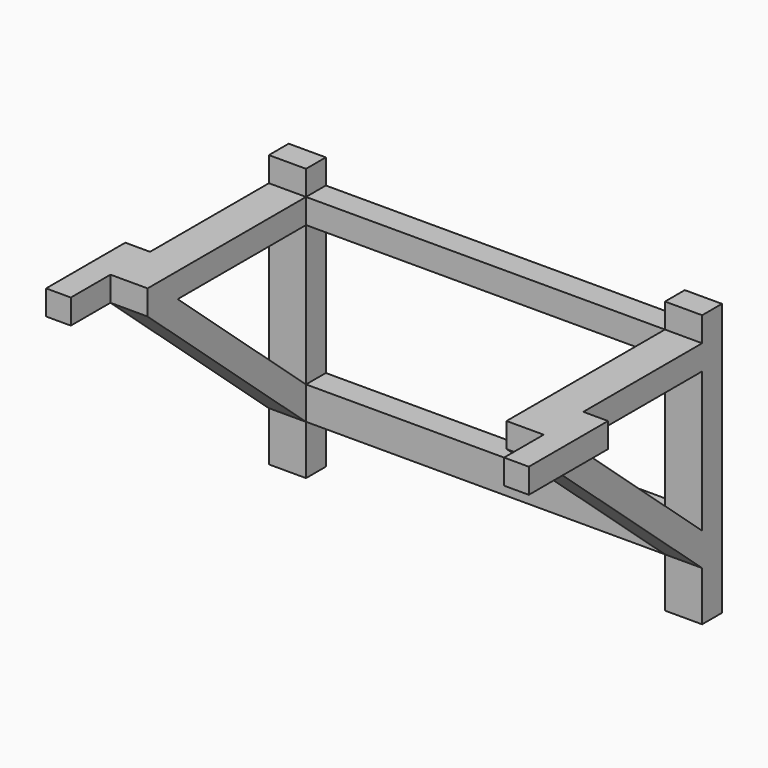
from build123d import *

# Parameters (mm, degrees)
F0_W     = 38.1
F0_H     = 143.9402176437
F0_H_2   = 25.2968176437
F0_W_2   = 368.3
F0_H_3   = 33.7566
F0_H_4   = 50.9031823563
F0_H_5   = 25.4
F0_H_6   = 50.8
F1_DEPTH = 25.4
F2_W     = 38.1
F2_H     = 25.4
F3_DEPTH = 203.2
F5_DEPTH = 38.1
F7_DEPTH = 38.1
F8_W     = 25.4
F8_H     = 50.8
F9_DEPTH = 25.4


with BuildPart() as f1:
    # F0 (on Front) → F1 (new body)
    with BuildSketch(Plane.XZ):
        with Locations((203.2, 16.9298911782)):
            Rectangle(F0_W, F0_H)
        with Locations((203.2, 126.9484088218)):
            Rectangle(F0_W, F0_H_2)
        with Locations((0, -71.9185176437)):
            Rectangle(F0_W_2, F0_H_3)
        with Locations((203.2, -71.9185176437)):
            Rectangle(F0_W, F0_H_3)
        with Locations((-203.2, -114.2484088218)):
            Rectangle(F0_W, F0_H_4)
        with Locations((-203.2, 16.9298911782)):
            Rectangle(F0_W, F0_H)
        with Locations((-203.2, 101.6)):
            Rectangle(F0_W, F0_H_5)
        with Locations((203.2, 101.6)):
            Rectangle(F0_W, F0_H_5)
        with Locations((-203.2, 127)):
            Rectangle(F0_W, F0_H_5)
        with Locations((-203.2, -71.9185176437)):
            Rectangle(F0_W, F0_H_3)
        with Locations((0, 101.6)):
            Rectangle(F0_W_2, F0_H_5)
        with Locations((203.2, -114.1968176437)):
            Rectangle(F0_W, F0_H_6)
    extrude(amount=F1_DEPTH)

    # F2 (on face) → F3 (join)
    with BuildSketch(Plane.XZ.offset(25.4)):
        with Locations((-203.2, 101.6)):
            Rectangle(F2_W, F2_H)
        with Locations((203.2, 101.6)):
            Rectangle(F2_W, F2_H)
    extrude(amount=F3_DEPTH)

    # F4 (on face) → F5 (join)
    with BuildSketch(Plane(origin=(-222.25, 0, 0), x_dir=(0, -1, 0), z_dir=(-1, 0, 0))):
        Polygon((25.4, -88.9), (228.6, 88.9), (190.0277566224, 88.9), (25.4, -55.1492870446), align=None)
    extrude(amount=-F5_DEPTH)

    # F6 (on face) → F7 (join)
    with BuildSketch(Plane.YZ.offset(222.25)):
        Polygon((-25.4, -55.0545965492), (-190.0150696827, 88.9), (-228.6, 88.9), (-25.4, -88.7968176437), align=None)
    extrude(amount=-F7_DEPTH)

    # F8 (on face) → F9 (join)
    with BuildSketch(Plane.XY.offset(114.3)):
        with Locations((-234.95, -254)):
            Rectangle(F8_W, F8_H)
        with Locations((-234.95, -203.2)):
            Rectangle(F8_W, F8_H)
        with Locations((234.95, -203.2)):
            Rectangle(F8_W, F8_H)
        with Locations((234.95, -254)):
            Rectangle(F8_W, F8_H)
    extrude(amount=-F9_DEPTH)


solid = f1.part
